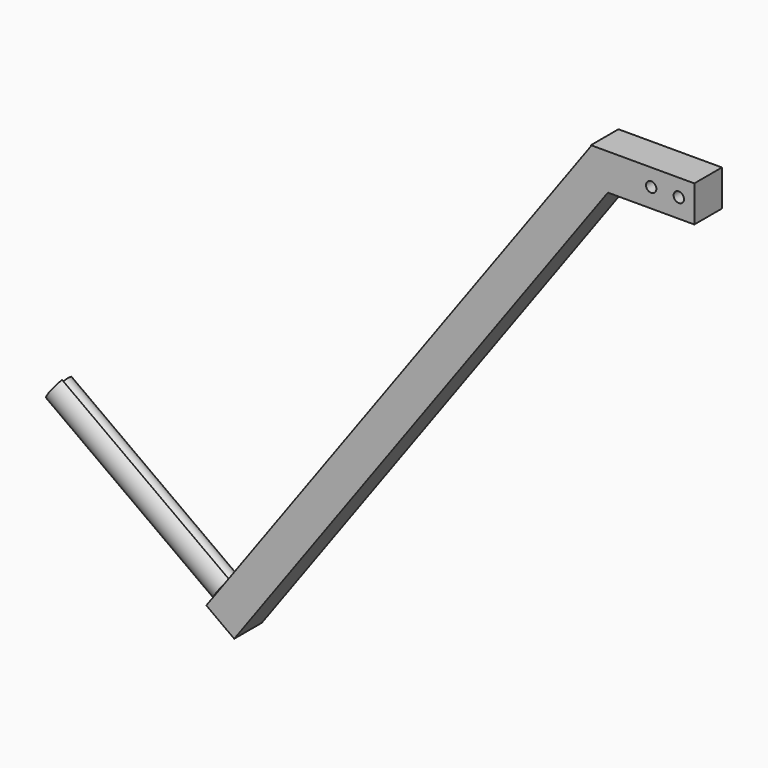
from build123d import *

# Parameters (mm, degrees)
CYLINDER275_R               = 5
CYLINDER275_DEPTH           = 130
CYLINDER275_PLACEMENT_ANGLE = 126
CYLINDER274_W               = 11
CYLINDER274_H               = 130
CYLINDER274_ANGLE           = 50
CYLINDER274_PLACEMENT_ANGLE = 126
CYLINDER277_R               = 5
CYLINDER277_DEPTH           = 130
CYLINDER277_PLACEMENT_ANGLE = 126
CYLINDER276_W               = 11
CYLINDER276_H               = 120
CYLINDER276_ANGLE           = 220
CYLINDER276_PLACEMENT_ANGLE = 126
CYLINDER273_R               = 10
CYLINDER273_DEPTH           = 120
CYLINDER273_PLACEMENT_ANGLE = 126
CYLINDER267_R               = 3
CYLINDER267_DEPTH           = 60
CYLINDER267_ROLL_ANGLE      = 90
CYLINDER263_R               = 3
CYLINDER263_DEPTH           = 37
CYLINDER263_ROLL_ANGLE      = 90
BOX087_W                    = 60
BOX087_H                    = 20
BOX087_DEPTH                = 21
BOX086_W                    = 20
BOX086_H                    = 20
BOX086_DEPTH                = 380
BOX086_PITCH_ANGLE          = 36


with BuildPart() as cilindro162:
    # Cylinder275 → Cylinder275 (new body)
    with BuildSketch(Plane.XY):
        Circle(CYLINDER275_R)
    extrude(amount=CYLINDER275_DEPTH)


with BuildPart() as cilindro162_1:
    # Cylinder275 placement: moved
    add(cilindro162.part.moved(Location((-292, 0, 98.9))).rotate(Axis((-292, 0, 98.9), (0, 1, 0)), CYLINDER275_PLACEMENT_ANGLE))


with BuildPart() as cut293:
    # Cylinder274 → Cylinder274 (revolve)
    with BuildSketch(Plane.XZ):
        with Locations((5.5, 65)):
            Rectangle(CYLINDER274_W, CYLINDER274_H)
    revolve(axis=Axis((0, 0, 0), (0, 0, 1)), revolution_arc=CYLINDER274_ANGLE)


with BuildPart() as cut293_1:
    # Cylinder274 placement: moved
    add(cut293.part.moved(Location((-292, 0, 98.9))).rotate(Axis((-292, 0, 98.9), (0, 1, 0)), CYLINDER274_PLACEMENT_ANGLE))

    # Cut293: cut Cilindro162
    add(cilindro162_1.part, mode=Mode.SUBTRACT)


with BuildPart() as cilindro164:
    # Cylinder277 → Cylinder277 (new body)
    with BuildSketch(Plane.XY):
        Circle(CYLINDER277_R)
    extrude(amount=CYLINDER277_DEPTH)


with BuildPart() as cilindro164_1:
    # Cylinder277 placement: moved
    add(cilindro164.part.moved(Location((-292, 0, 98.9))).rotate(Axis((-292, 0, 98.9), (0, 1, 0)), CYLINDER277_PLACEMENT_ANGLE))


with BuildPart() as cut295:
    # Cylinder276 → Cylinder276 (revolve)
    with BuildSketch(Plane.XZ):
        with Locations((5.5, 60)):
            Rectangle(CYLINDER276_W, CYLINDER276_H)
    revolve(axis=Axis((0, 0, 0), (0, 0, 1)), revolution_arc=CYLINDER276_ANGLE)


with BuildPart() as cut295_1:
    # Cylinder276 placement: moved
    add(cut295.part.moved(Location((-292, 0, 98.9))).rotate(Axis((-292, 0, 98.9), (0, 1, 0)), CYLINDER276_PLACEMENT_ANGLE))

    # Cut294: cut Cilindro164
    add(cilindro164_1.part, mode=Mode.SUBTRACT)

    # Cut295: cut Cut293
    add(cut293_1.part, mode=Mode.SUBTRACT)


with BuildPart() as cut296:
    # Cylinder273 → Cylinder273 (new body)
    with BuildSketch(Plane.XY):
        Circle(CYLINDER273_R)
    extrude(amount=CYLINDER273_DEPTH)


with BuildPart() as cut296_1:
    # Cylinder273 placement: moved
    add(cut296.part.moved(Location((-292, 0, 98.9))).rotate(Axis((-292, 0, 98.9), (0, 1, 0)), CYLINDER273_PLACEMENT_ANGLE))

    # Cut296: cut Cut295
    add(cut295_1.part, mode=Mode.SUBTRACT)


with BuildPart() as cut296_2:
    # Cut296 placement: moved
    add(cut296_1.part.moved(Location((-523, 0, -106))))


with BuildPart() as obj1:
    # Cylinder267 → Cylinder267 (new body)
    with BuildSketch(Plane.XY):
        Circle(CYLINDER267_R)
    extrude(amount=CYLINDER267_DEPTH)


with BuildPart() as obj1_1:
    # Cylinder267 roll: moved
    add(obj1.part.rotate(Axis((0, 0, 0), (1, 0, 0)), CYLINDER267_ROLL_ANGLE))


with BuildPart() as obj1_2:
    # Cylinder267 placement: moved
    add(obj1_1.part.moved(Location((-466, 20, 211))))


with BuildPart() as cilindro153:
    # Cylinder263 → Cylinder263 (new body)
    with BuildSketch(Plane.XY):
        Circle(CYLINDER263_R)
    extrude(amount=CYLINDER263_DEPTH)


with BuildPart() as cilindro153_1:
    # Cylinder263 roll: moved
    add(cilindro153.part.rotate(Axis((0, 0, 0), (1, 0, 0)), CYLINDER263_ROLL_ANGLE))


with BuildPart() as cilindro153_2:
    # Cylinder263 placement: moved
    add(cilindro153_1.part.moved(Location((-2, 496, 211))))


with BuildPart() as cubo061:
    # Box087 → Box087 (new body)
    with BuildSketch(Plane(origin=(-68, 469, 200), x_dir=(1, 0, 0), z_dir=(0, 0, 1))):
        with Locations((30, 10)):
            Rectangle(BOX087_W, BOX087_H)
    extrude(amount=BOX087_DEPTH)


with BuildPart() as fusion082:
    # Box086 → Box086 (new body)
    with BuildSketch(Plane.XY):
        with Locations((10, 10)):
            Rectangle(BOX086_W, BOX086_H)
    extrude(amount=BOX086_DEPTH)


with BuildPart() as fusion082_1:
    # Box086 pitch: moved
    add(fusion082.part.rotate(Axis((0, 0, 0), (0, 1, 0)), BOX086_PITCH_ANGLE))


with BuildPart() as fusion082_2:
    # Box086 placement: moved
    add(fusion082_1.part.moved(Location((-291, 469, -86.5))))

    # Fusion045: union Cubo061
    add(cubo061.part)


with BuildPart() as fusion082_3:
    # Fusion045 placement: moved
    add(fusion082_2.part.moved(Location((15, 0, 0))))

    # Cut281: cut Cilindro153
    add(cilindro153_2.part, mode=Mode.SUBTRACT)


with BuildPart() as fusion082_4:
    # Cut281 placement: moved
    add(fusion082_3.part.moved(Location((-448, -479, 0))))

    # Cut288: cut obj1
    add(obj1_2.part, mode=Mode.SUBTRACT)

    # Fusion082: union Cut296
    add(cut296_2.part)


solid = fusion082_4.part
